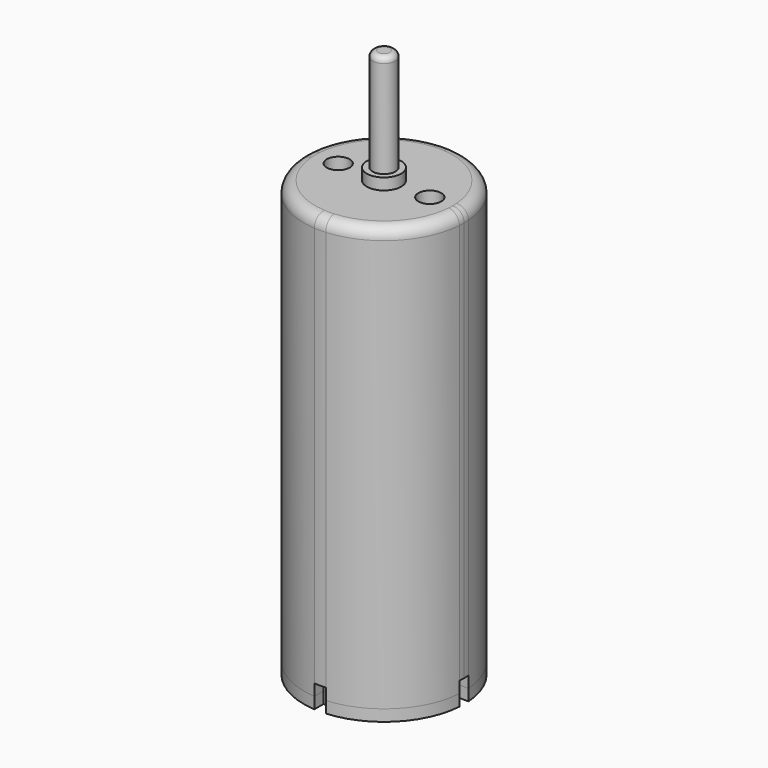
from build123d import *

# Parameters (mm, degrees)
F0_R     = 0.25
F1_DEPTH = 0.5
F2_START = 0.5
F2_DEPTH = 0.5
F3_START = 1
F3_DEPTH = 18
F4_R     = 0.5
F5_R     = 0.5
F6_DEPTH = 1
F5_R_2   = 0.75
F7_DEPTH = 0.5
F8_DEPTH = 5
F9_R     = 0.25


with BuildPart() as f1:
    # F0 (on Top) → F1 (new body)
    with BuildSketch(Plane.XY):
        with BuildLine():
            Line((0.25, 2.9910600109), (-0.25, 2.9910600109))
            Line((-0.25, 2.9910600109), (-0.25, 3.4910600109))
            ThreePointArc((-0.25, 3.4910600109), (-2.4748737342, 2.4748737342), (-3.4910600109, 0.25))
            Line((-3.4910600109, 0.25), (-2.9910600109, 0.25))
            Line((-2.9910600109, 0.25), (-2.9910600109, -0.25))
            Line((-2.9910600109, -0.25), (-3.4910600109, -0.25))
            ThreePointArc((-3.4910600109, -0.25), (-2.4748737342, -2.4748737342), (-0.25, -3.4910600109))
            Line((-0.25, -3.4910600109), (-0.25, -2.9910600109))
            Line((-0.25, -2.9910600109), (0.25, -2.9910600109))
            Line((0.25, -2.9910600109), (0.25, -3.4910600109))
            ThreePointArc((0.25, -3.4910600109), (2.4748737342, -2.4748737342), (3.4910600109, -0.25))
            Line((3.4910600109, -0.25), (2.9910600109, -0.25))
            Line((2.9910600109, -0.25), (2.9910600109, 0.25))
            Line((2.9910600109, 0.25), (3.4910600109, 0.25))
            ThreePointArc((3.4910600109, 0.25), (2.4748737342, 2.4748737342), (0.25, 3.4910600109))
            Line((0.25, 3.4910600109), (0.25, 2.9910600109))
        make_face()
        with Locations((-1.75, -1.75)):
            Circle(F0_R, mode=Mode.SUBTRACT)
        with Locations((1.75, 1.75)):
            Circle(F0_R, mode=Mode.SUBTRACT)
    extrude(amount=F1_DEPTH)


with BuildPart() as f2:
    # F0 (on Top) → F2 (new body)
    with BuildSketch(Plane.XY.offset(F2_START)):
        with BuildLine():
            Line((0.25, 2.9910600109), (-0.25, 2.9910600109))
            Line((-0.25, 2.9910600109), (-0.25, 3.4910600109))
            ThreePointArc((-0.25, 3.4910600109), (-2.4748737342, 2.4748737342), (-3.4910600109, 0.25))
            Line((-3.4910600109, 0.25), (-2.9910600109, 0.25))
            Line((-2.9910600109, 0.25), (-2.9910600109, -0.25))
            Line((-2.9910600109, -0.25), (-3.4910600109, -0.25))
            ThreePointArc((-3.4910600109, -0.25), (-2.4748737342, -2.4748737342), (-0.25, -3.4910600109))
            Line((-0.25, -3.4910600109), (-0.25, -2.9910600109))
            Line((-0.25, -2.9910600109), (0.25, -2.9910600109))
            Line((0.25, -2.9910600109), (0.25, -3.4910600109))
            ThreePointArc((0.25, -3.4910600109), (2.4748737342, -2.4748737342), (3.4910600109, -0.25))
            Line((3.4910600109, -0.25), (2.9910600109, -0.25))
            Line((2.9910600109, -0.25), (2.9910600109, 0.25))
            Line((2.9910600109, 0.25), (3.4910600109, 0.25))
            ThreePointArc((3.4910600109, 0.25), (2.4748737342, 2.4748737342), (0.25, 3.4910600109))
            Line((0.25, 3.4910600109), (0.25, 2.9910600109))
        make_face()
        with Locations((-1.75, -1.75)):
            Circle(F0_R, mode=Mode.SUBTRACT)
        with Locations((1.75, 1.75)):
            Circle(F0_R, mode=Mode.SUBTRACT)
        with Locations((-1.75, -1.75)):
            Circle(F0_R)
        with Locations((1.75, 1.75)):
            Circle(F0_R)
    extrude(amount=F2_DEPTH)

    # F0 (on Top) → F3 (join)
    with BuildSketch(Plane.XY.offset(F3_START)):
        with BuildLine():
            Line((0.25, 2.9910600109), (-0.25, 2.9910600109))
            Line((-0.25, 2.9910600109), (-0.25, 3.4910600109))
            ThreePointArc((-0.25, 3.4910600109), (-2.4748737342, 2.4748737342), (-3.4910600109, 0.25))
            Line((-3.4910600109, 0.25), (-2.9910600109, 0.25))
            Line((-2.9910600109, 0.25), (-2.9910600109, -0.25))
            Line((-2.9910600109, -0.25), (-3.4910600109, -0.25))
            ThreePointArc((-3.4910600109, -0.25), (-2.4748737342, -2.4748737342), (-0.25, -3.4910600109))
            Line((-0.25, -3.4910600109), (-0.25, -2.9910600109))
            Line((-0.25, -2.9910600109), (0.25, -2.9910600109))
            Line((0.25, -2.9910600109), (0.25, -3.4910600109))
            ThreePointArc((0.25, -3.4910600109), (2.4748737342, -2.4748737342), (3.4910600109, -0.25))
            Line((3.4910600109, -0.25), (2.9910600109, -0.25))
            Line((2.9910600109, -0.25), (2.9910600109, 0.25))
            Line((2.9910600109, 0.25), (3.4910600109, 0.25))
            ThreePointArc((3.4910600109, 0.25), (2.4748737342, 2.4748737342), (0.25, 3.4910600109))
            Line((0.25, 3.4910600109), (0.25, 2.9910600109))
        make_face()
        with Locations((-1.75, -1.75)):
            Circle(F0_R, mode=Mode.SUBTRACT)
        with Locations((1.75, 1.75)):
            Circle(F0_R, mode=Mode.SUBTRACT)
        with BuildLine():
            Line((-0.25, -2.9910600109), (-0.25, -3.4910600109))
            ThreePointArc((-0.25, -3.4910600109), (0, -3.5), (0.25, -3.4910600109))
            Line((0.25, -3.4910600109), (0.25, -2.9910600109))
            Line((0.25, -2.9910600109), (-0.25, -2.9910600109))
        make_face()
        with BuildLine():
            Line((-2.9910600109, 0.25), (-3.4910600109, 0.25))
            ThreePointArc((-3.4910600109, 0.25), (-3.5, 0), (-3.4910600109, -0.25))
            Line((-3.4910600109, -0.25), (-2.9910600109, -0.25))
            Line((-2.9910600109, -0.25), (-2.9910600109, 0.25))
        make_face()
        with BuildLine():
            Line((-0.25, 3.4910600109), (-0.25, 2.9910600109))
            Line((-0.25, 2.9910600109), (0.25, 2.9910600109))
            Line((0.25, 2.9910600109), (0.25, 3.4910600109))
            ThreePointArc((0.25, 3.4910600109), (0, 3.5), (-0.25, 3.4910600109))
        make_face()
        with Locations((-1.75, -1.75)):
            Circle(F0_R)
        with Locations((1.75, 1.75)):
            Circle(F0_R)
        with BuildLine():
            ThreePointArc((3.5, 0), (3.4977642887, 0.1250798979), (3.4910600109, 0.25))
            Line((3.4910600109, 0.25), (2.9910600109, 0.25))
            Line((2.9910600109, 0.25), (2.9910600109, -0.25))
            Line((2.9910600109, -0.25), (3.4910600109, -0.25))
            ThreePointArc((3.4910600109, -0.25), (3.4977642887, -0.1250798979), (3.5, 0))
        make_face()
    extrude(amount=F3_DEPTH)

    # F4
    f4_edges = [f2.edges().sort_by_distance(p)[0] for p in [
        (-3.49106, 0.25, 19),
    ]]
    fillet(f4_edges, radius=F4_R)

    # F5 (on face) → F6 (cut)
    with BuildSketch(Plane.XY.offset(19)):
        with Locations((-2, 0)):
            Circle(F5_R)
        with Locations((2, 0)):
            Circle(F5_R)
    extrude(amount=-F6_DEPTH, mode=Mode.SUBTRACT)


with BuildPart() as f7:
    # F5 (on face) → F7 (new body)
    with BuildSketch(Plane.XY.offset(19)):
        Circle(F5_R_2)
        Circle(F5_R, mode=Mode.SUBTRACT)
    extrude(amount=F7_DEPTH)


with BuildPart() as f8:
    # F5 (on face) → F8 (new body)
    with BuildSketch(Plane.XY.offset(19)):
        Circle(F5_R)
    extrude(amount=F8_DEPTH)

    # F9
    f9_edges = [f8.edges().sort_by_distance(p)[0] for p in [
        (-0.5, 0, 24),
    ]]
    fillet(f9_edges, radius=F9_R)


solid = Compound([f1.part, f2.part, f7.part, f8.part])
